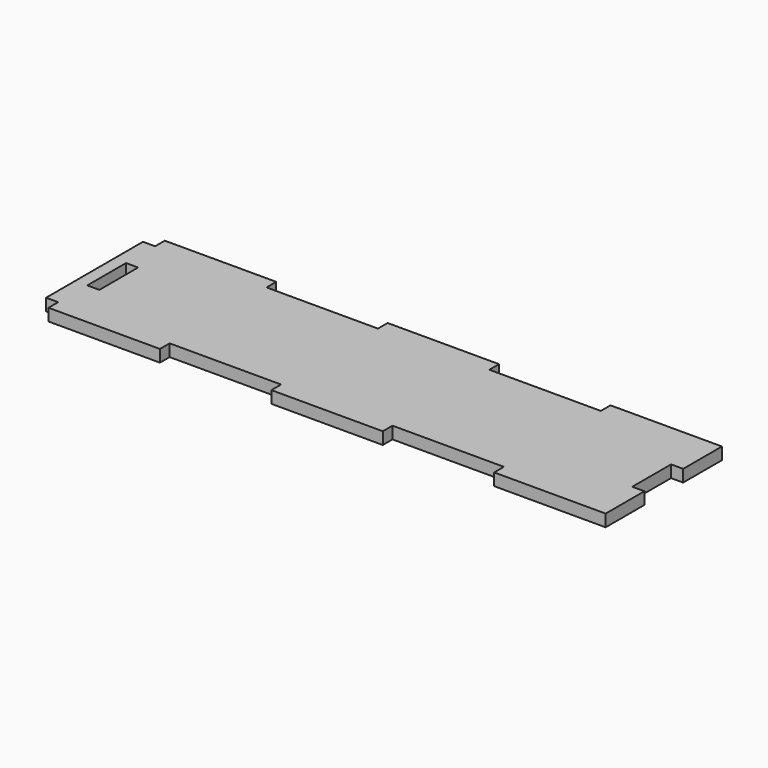
from build123d import *

# Parameters (mm, degrees)
F0_W     = 5
F0_H     = 20
F1_DEPTH = 5


with BuildPart() as f1:
    # F0 (on Top) → F1 (new body)
    with BuildSketch(Plane.XY):
        Polygon((69, 30), (69, 25), (23, 25), (23, 30), (-23, 30), (-23, 25), (-69, 25), (-69, 30), (-115, 30), (-115, 25), (-120, 25), (-120, -25), (-115, -25), (-115, -30), (-69, -30), (-69, -25), (-23, -25), (-23, -30), (23, -30), (23, -25), (69, -25), (69, -30), (115, -30), (115, -10), (110, -10), (110, 10), (115, 10), (115, 30), align=None)
        with Locations((-112.5, 0)):
            Rectangle(F0_W, F0_H, mode=Mode.SUBTRACT)
    extrude(amount=F1_DEPTH)


solid = f1.part
